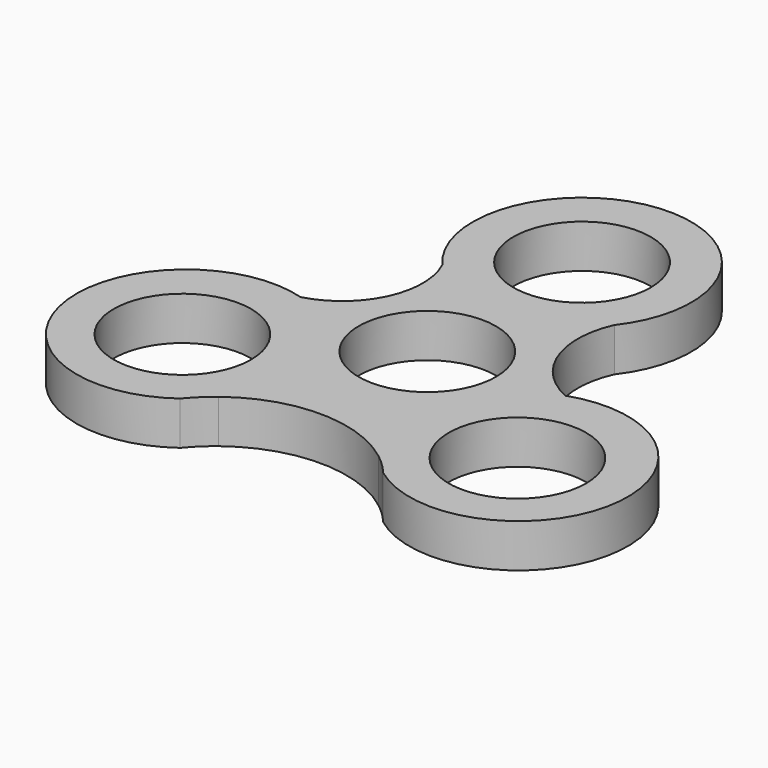
from build123d import *

# Parameters (mm, degrees)
F0_R     = 11
F1_DEPTH = 6.96


with BuildPart() as f1:
    # F0 (on Top) → F1 (new body)
    with BuildSketch(Plane.XY):
        with BuildLine():
            ThreePointArc((20.967224, 1.44653), (13.484367, 9.343679), (13.791942, 20.218582))
            ThreePointArc((13.791942, 20.218582), (-0.473405, 48.484008), (-13.189176, 19.488428))
            ThreePointArc((-13.189176, 19.488428), (-13.229135, 8.590307), (-21.602449, 1.614759))
            ThreePointArc((-21.602449, 1.614759), (-43.793526, -18.199862), (-16.173887, -29.255114))
            ThreePointArc((-16.173887, -29.255114), (-14.55487, -27.485928), (-12.744492, -25.913108))
            ThreePointArc((-12.744492, -25.913108), (0.13651, -21.532556), (12.995613, -25.976982))
            ThreePointArc((12.995613, -25.976982), (14.693213, -27.456193), (16.222473, -29.108848))
            ThreePointArc((16.222473, -29.108848), (43.988926, -17.774444), (20.967224, 1.44653))
        make_face()
        with Locations((-26.838484, -15.495206)):
            Circle(F0_R, mode=Mode.SUBTRACT)
        Circle(F0_R, mode=Mode.SUBTRACT)
        with Locations((26.838484, -15.495206)):
            Circle(F0_R, mode=Mode.SUBTRACT)
        with Locations((0, 30.990412)):
            Circle(F0_R, mode=Mode.SUBTRACT)
    extrude(amount=F1_DEPTH)


solid = f1.part
